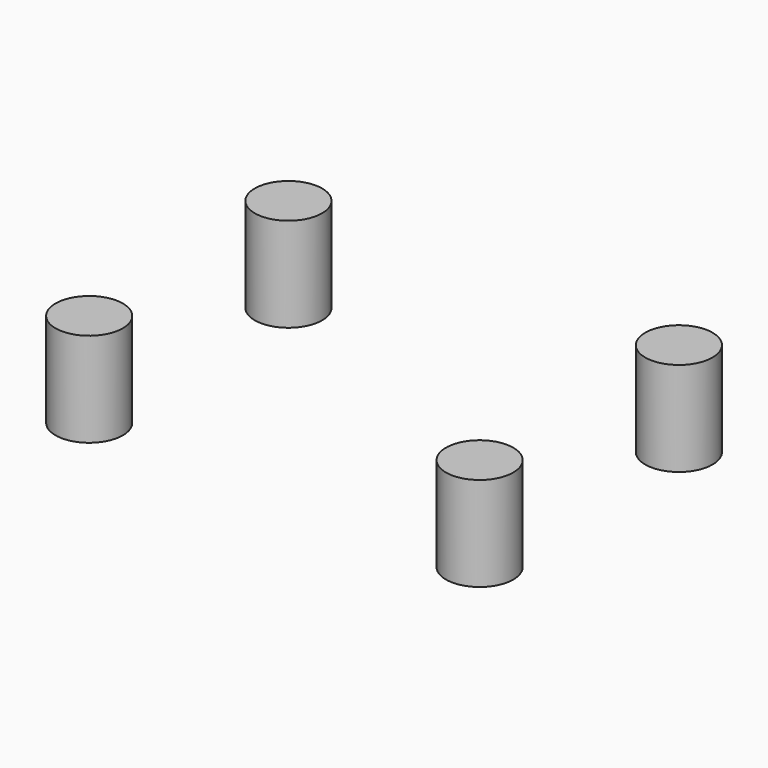
from build123d import *

# Parameters (mm, degrees)
CYLINDER_R        = 5
CYLINDER_DEPTH    = 14
CYLINDER001_R     = 5
CYLINDER001_DEPTH = 14
CYLINDER002_R     = 5
CYLINDER002_DEPTH = 14
CYLINDER003_R     = 5
CYLINDER003_DEPTH = 14


with BuildPart() as cylinder:
    # Cylinder → Cylinder (new body)
    with BuildSketch(Plane(origin=(6, 75, 2), x_dir=(1, 0, 0), z_dir=(0, 0, 1))):
        Circle(CYLINDER_R)
    extrude(amount=CYLINDER_DEPTH)


with BuildPart() as cylinder001:
    # Cylinder001 → Cylinder001 (new body)
    with BuildSketch(Plane(origin=(64, 38, 2), x_dir=(1, 0, 0), z_dir=(0, 0, 1))):
        Circle(CYLINDER001_R)
    extrude(amount=CYLINDER001_DEPTH)


with BuildPart() as cylinder002:
    # Cylinder002 → Cylinder002 (new body)
    with BuildSketch(Plane(origin=(6, 38, 2), x_dir=(1, 0, 0), z_dir=(0, 0, 1))):
        Circle(CYLINDER002_R)
    extrude(amount=CYLINDER002_DEPTH)


with BuildPart() as bases:
    # Cylinder003 → Cylinder003 (new body)
    with BuildSketch(Plane(origin=(64, 75, 2), x_dir=(1, 0, 0), z_dir=(0, 0, 1))):
        Circle(CYLINDER003_R)
    extrude(amount=CYLINDER003_DEPTH)

    # Fusion: union Cylinder, Cylinder001, Cylinder002
    add(cylinder.part)
    add(cylinder001.part)
    add(cylinder002.part)


solid = bases.part
